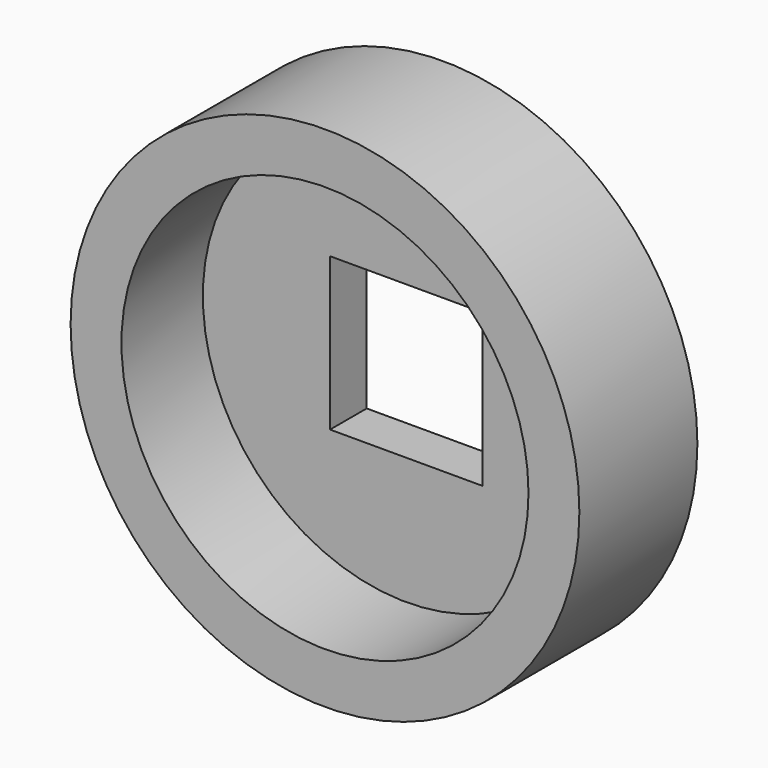
from build123d import *

# Parameters (mm, degrees)
F0_R     = 63.5
F1_DEPTH = 36.83
F2_R     = 50.8
F3_DEPTH = 25.4
F4_W     = 38.1
F4_H     = 38.1
F5_DEPTH = 25.4


with BuildPart() as f1:
    # F0 (on Front) → F1 (new body)
    with BuildSketch(Plane.XZ):
        Circle(F0_R)
    extrude(amount=F1_DEPTH)

    # F2 (on face) → F3 (cut)
    with BuildSketch(Plane.XZ.offset(36.83)):
        Circle(F2_R)
    extrude(amount=-F3_DEPTH, mode=Mode.SUBTRACT)

    # F4 (on face) → F5 (cut)
    with BuildSketch(Plane(origin=(0, 0, 0), x_dir=(-1, 0, 0), z_dir=(0, 1, 0))):
        Rectangle(F4_W, F4_H)
    extrude(amount=-F5_DEPTH, mode=Mode.SUBTRACT)


solid = f1.part
